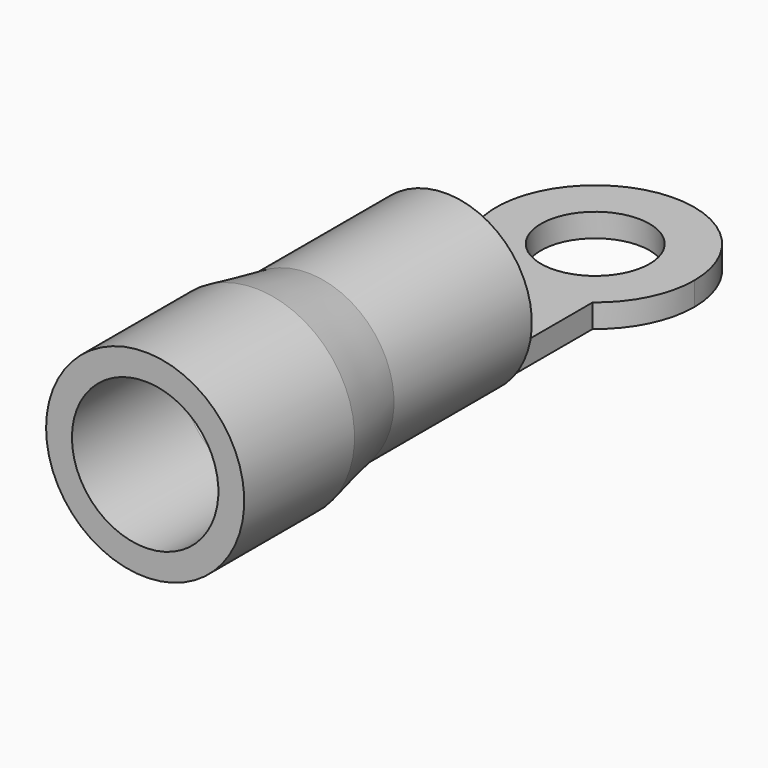
from build123d import *

# Parameters (mm, degrees)
F0_W     = 0.6380043384
F0_H     = 3.3598747104
F2_START = -1
F0_R     = 1.575
F2_DEPTH = 0.68


with BuildPart() as f1:
    # F0 (on Top) → F1 (revolve)
    with BuildSketch(Plane.XY):
        with Locations((-1.4309978308, -1.6799373552)):
            Rectangle(F0_W, F0_H)
        Polygon((-1.75, -3.3598747104), (-1.75, 0), (-2.5, 0), (-2.5, -5), (-2.875, -6.9), (-2.875, -10.9), (-2.125, -10.9), (-2.125, -6.9), (-1.75, -5), align=None)
    revolve(axis=Axis((0, 2.7125, 0), (0, -1, 0)))

    # F0 (on Top) → F2 (join)
    with BuildSketch(Plane.XY.offset(F2_START)):
        with BuildLine():
            ThreePointArc((1.75, 3.1439640511), (0, 2.55), (-1.75, 3.1439640511))
            Line((-1.75, 3.1439640511), (-1.75, 0))
            Line((-1.75, 0), (-1.1119956616, 0))
            Line((-1.1119956616, 0), (0, 0))
            Line((0, 0), (1.75, 0))
            Line((1.75, 0), (1.75, 3.1439640511))
        make_face()
        with BuildLine():
            ThreePointArc((1.75, 3.1439640511), (2.5784564181, 4.1533131282), (2.875, 5.425))
            ThreePointArc((2.875, 5.425), (-1.2716868718, 8.0034564181), (-1.75, 3.1439640511))
            ThreePointArc((-1.75, 3.1439640511), (0, 2.55), (1.75, 3.1439640511))
        make_face()
        with Locations((0, 5.425)):
            Circle(F0_R, mode=Mode.SUBTRACT)
    extrude(amount=-F2_DEPTH)


solid = f1.part
